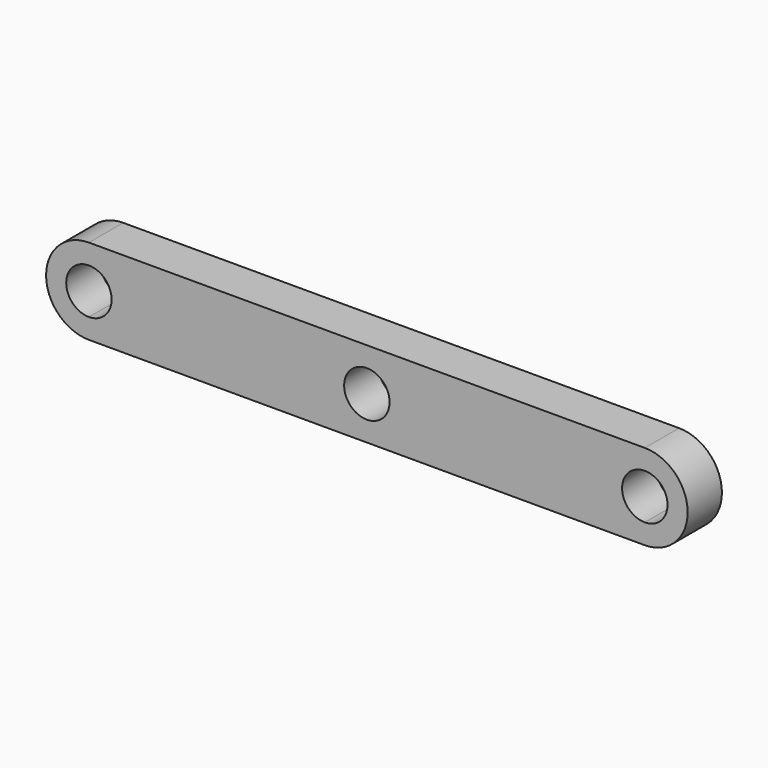
from build123d import *

# Parameters (mm, degrees)
F0_R     = 3.3655
F1_DEPTH = 6.35


with BuildPart() as f1:
    # F0 (on Front) → F1 (new body)
    with BuildSketch(Plane.XZ):
        with BuildLine():
            Line((52.27675, 2.9845), (52.27675, 0))
            ThreePointArc((52.27675, 0), (58.62675, 6.35), (52.27675, 12.7))
            Line((52.27675, 12.7), (52.27675, 9.7155))
            ThreePointArc((52.27675, 9.7155), (54.656518, 8.729768), (55.64225, 6.35))
            ThreePointArc((55.64225, 6.35), (54.656518, 3.970232), (52.27675, 2.9845))
        make_face()
        with BuildLine():
            ThreePointArc((-30.125582, 12.7), (-36.475582, 6.35), (-30.125582, 0))
            Line((-30.125582, 0), (-30.125582, 2.9845))
            ThreePointArc((-30.125582, 2.9845), (-33.491082, 6.35), (-30.125582, 9.7155))
            Line((-30.125582, 9.7155), (-30.125582, 12.7))
        make_face()
        with BuildLine():
            Line((-30.125582, 0), (52.27675, 0))
            Line((52.27675, 0), (52.27675, 2.9845))
            ThreePointArc((52.27675, 2.9845), (48.91125, 6.35), (52.27675, 9.7155))
            Line((52.27675, 9.7155), (52.27675, 12.7))
            Line((52.27675, 12.7), (-30.125582, 12.7))
            Line((-30.125582, 12.7), (-30.125582, 9.7155))
            ThreePointArc((-30.125582, 9.7155), (-27.745814, 8.729768), (-26.760082, 6.35))
            ThreePointArc((-26.760082, 6.35), (-27.745814, 3.970232), (-30.125582, 2.9845))
            Line((-30.125582, 2.9845), (-30.125582, 0))
        make_face()
        with Locations((11.075584, 6.35)):
            Circle(F0_R, mode=Mode.SUBTRACT)
    extrude(amount=F1_DEPTH)


solid = f1.part
